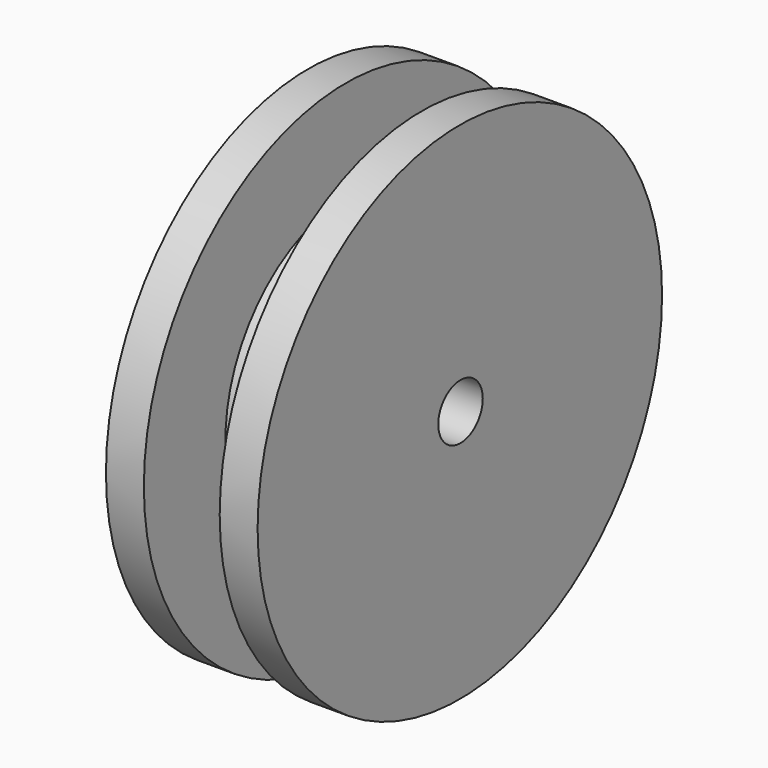
from build123d import *

# Parameters (mm, degrees)
SKETCH049_R      = 10
SKETCH049_R_2    = 7.25
EXTRUDE051_DEPTH = 1.5
EXTRUDE052_DEPTH = 1.5
SKETCH031_R      = 10
SKETCH031_R_2    = 6
EXTRUDE040_DEPTH = 3
SKETCH030_R      = 7.5
SKETCH030_R_2    = 1.1
EXTRUDE039_DEPTH = 6


with BuildPart() as band_reinforcement002:
    # Sketch049 (on Face9 of Fusion017) → Extrude051 (new body)
    with BuildSketch(Plane(origin=(11, 0, -0.5), x_dir=(0, 1, 0), z_dir=(1, 0, 0))):
        with Locations((-148.033386, 76.507172)):
            Circle(SKETCH049_R)
        with Locations((-148.033386, 76.507172)):
            Circle(SKETCH049_R_2, mode=Mode.SUBTRACT)
    extrude(amount=-EXTRUDE051_DEPTH)


with BuildPart() as band_reinforcement002_1:
    # Extrude051 placement: moved
    add(band_reinforcement002.part.moved(Location((0, 37.5, -30.5))))


with BuildPart() as bottom_reinforcement:
    # Sketch049 (on Face9 of Fusion017) → Extrude052 (new body)
    with BuildSketch(Plane(origin=(11, 0, -0.5), x_dir=(0, 1, 0), z_dir=(1, 0, 0))):
        with Locations((-148.033386, 76.507172)):
            Circle(SKETCH049_R)
        with Locations((-148.033386, 76.507172)):
            Circle(SKETCH049_R_2, mode=Mode.SUBTRACT)
    extrude(amount=-EXTRUDE052_DEPTH)


with BuildPart() as bottom_reinforcement_1:
    # Extrude052 placement: moved
    add(bottom_reinforcement.part.moved(Location((-4.5, 37.5, -30.5))))

    # Fusion024: union Band Reinforcement002
    add(band_reinforcement002_1.part)


with BuildPart() as extrude040:
    # Sketch031 → Extrude040 (new body)
    with BuildSketch(Plane.YZ.offset(6)):
        with Locations((-18.5, 45.51)):
            Circle(SKETCH031_R)
        with Locations((-18.5, 45.51)):
            Circle(SKETCH031_R_2, mode=Mode.SUBTRACT)
    extrude(amount=EXTRUDE040_DEPTH)


with BuildPart() as extrude040_1:
    # Extrude040 placement: moved
    add(extrude040.part.moved(Location((-4.5, 0, 0))))


with BuildPart() as motor_reinforced_gear:
    # Sketch030 → Extrude039 (new body)
    with BuildSketch(Plane.YZ):
        with Locations((-18.5, 45.51)):
            Circle(SKETCH030_R)
        with Locations((-18.5, 45.51)):
            Circle(SKETCH030_R_2, mode=Mode.SUBTRACT)
    extrude(amount=EXTRUDE039_DEPTH)

    # Cut011: cut Extrude040
    add(extrude040_1.part, mode=Mode.SUBTRACT)


with BuildPart() as motor_reinforced_gear_1:
    # Cut011 placement: moved
    add(motor_reinforced_gear.part.moved(Location((5, -92, 0))))

    # Fusion025: union Bottom Reinforcement
    add(bottom_reinforcement_1.part)


solid = motor_reinforced_gear_1.part
